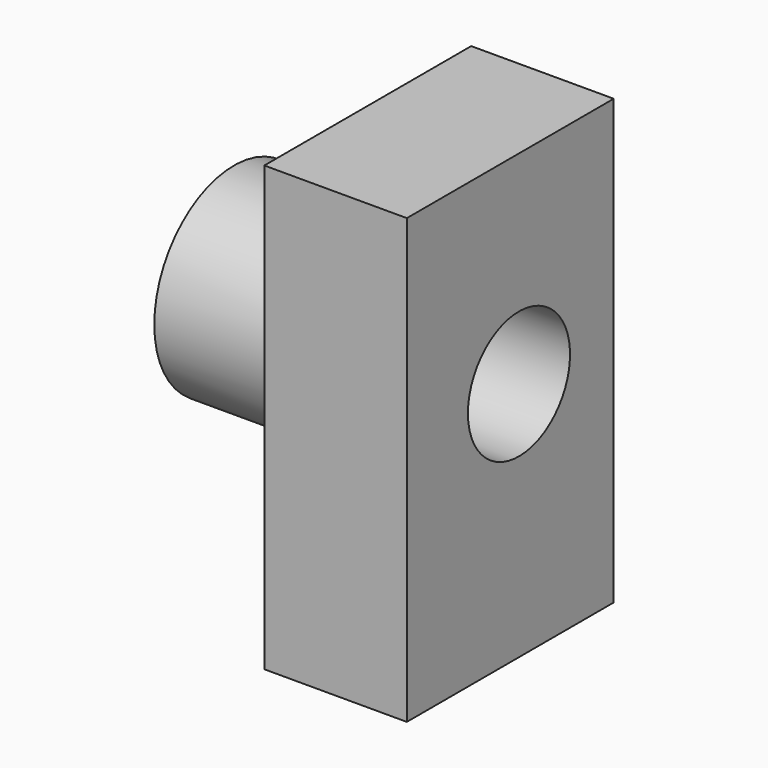
from build123d import *

# Parameters (mm, degrees)
F0_W     = 46.089629
F0_H     = 79.049881
F1_DEPTH = 25.4
F2_R     = 17.749963
F3_DEPTH = 25.4
F4_R     = 11.375328
F5_DEPTH = 50.801


with BuildPart() as f1:
    # F0 (on Right) → F1 (new body)
    with BuildSketch(Plane.YZ):
        with Locations((3.503773, -7.040882)):
            Rectangle(F0_W, F0_H)
    extrude(amount=F1_DEPTH)

    # F2 (on face) → F3 (join)
    with BuildSketch(Plane(origin=(0, 0, 0), x_dir=(0, -1, 0), z_dir=(-1, 0, 0))):
        with Locations((-5.44068, -3.68046)):
            Circle(F2_R)
    extrude(amount=F3_DEPTH)

    # F4 (on face) → F5 (cut, through all)
    with BuildSketch(Plane(origin=(-25.4, 0, 0), x_dir=(0, -1, 0), z_dir=(-1, 0, 0))):
        with Locations((-5.44068, -3.68046)):
            Circle(F4_R)
    extrude(amount=-F5_DEPTH, mode=Mode.SUBTRACT)


solid = f1.part
